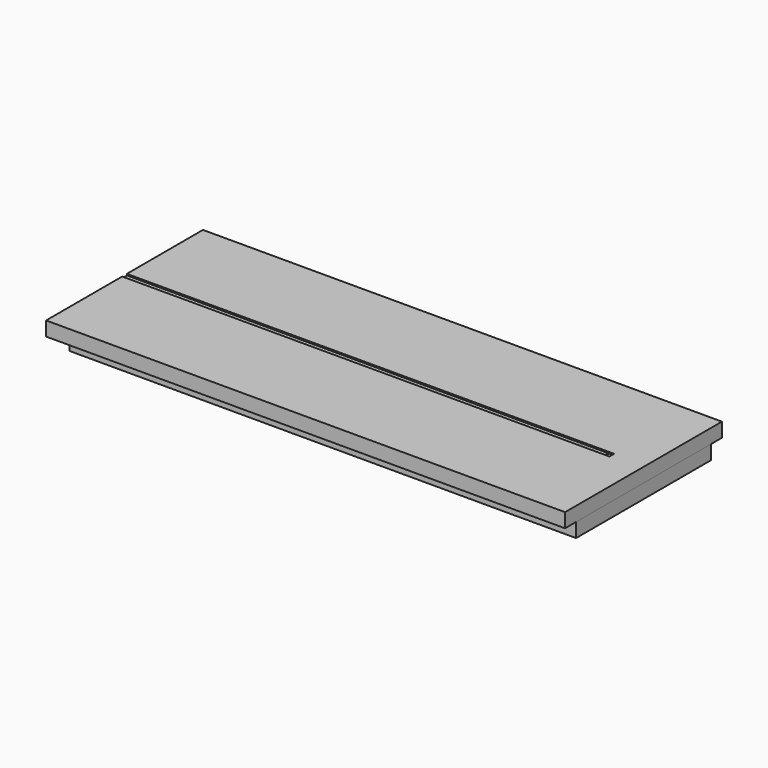
from build123d import *

# Parameters (mm, degrees)
F6_W     = 56.56732
F6_H     = 21.370728
F6_R     = 0.301175
F7_DEPTH = 0.3048
F8_DEPTH = 0.1524
F5_W     = 56.56732
F5_H     = 21.370728
F9_DEPTH = 1.0922
F3_W     = 55.18673
F3_H     = 18.370153
F4_DEPTH = 1.5494


with BuildPart() as f7:
    # F6 (on face) → F7 (new body)
    with BuildSketch(Plane.XY):
        Rectangle(F6_W, F6_H)
        with Locations((24.477545, 0)):
            Circle(F6_R, mode=Mode.SUBTRACT)
    extrude(amount=F7_DEPTH)

    # F1 (on face) → F8 (join)
    with BuildSketch(Plane.XY.offset(0.3048)):
        Polygon((-24.833549, -0.31923), (-24.833549, -0.319519), (-28.28366, -0.319519), (-28.28366, -10.685364), (28.28366, -10.685364), (28.28366, 10.685364), (-28.28366, 10.685364), (-28.28366, 0.318926), (-24.833655, 0.318926), (-24.833655, 0.31923), (24.833655, 0.31923), (24.833655, -0.31923), align=None)
    extrude(amount=F8_DEPTH)

    # F5 (on Top) → F9 (join)
    with BuildSketch(Plane.XY):
        Rectangle(F5_W, F5_H)
    extrude(amount=-F9_DEPTH)

    # F3 (on face) → F4 (join)
    with BuildSketch(Plane(origin=(0, 0, -1.0922), x_dir=(1, 0, 0), z_dir=(0, 0, -1))):
        with Locations((0.690263, 0.001336)):
            Rectangle(F3_W, F3_H)
    extrude(amount=F4_DEPTH)


solid = f7.part
